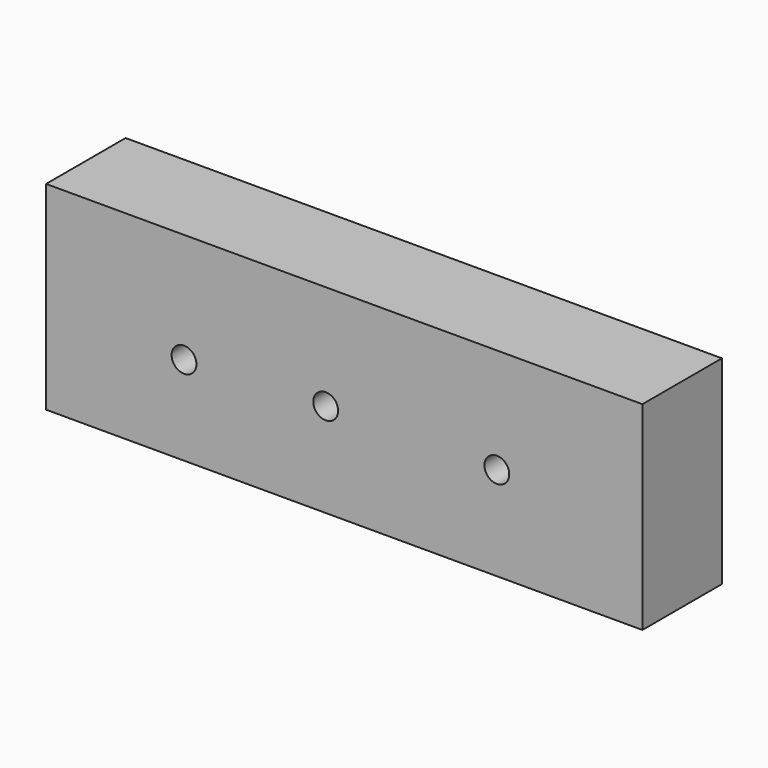
from build123d import *

# Parameters (mm, degrees)
F1_DEPTH = 25.4
F2_D     = 6.35


with BuildPart() as f1:
    # F0 (on Front) → F1 (new body)
    with BuildSketch(Plane.XZ):
        Polygon((31.6425718893, 50.8), (-46.8900987147, 50.8), (-46.8900987147, 0), (31.6425718893, 0), (34.2237182177, 0), (105.5099012853, 0), (105.5099012853, 50.8), (34.2237182177, 50.8), align=None)
    extrude(amount=F1_DEPTH)

    # F2 (through all)
    with Locations(Plane(origin=(0, 0, 0), x_dir=(1, 0, 0), z_dir=(0, 1, 0))):
        with Locations((24.5759151876, -24.0166038275), (-11.6378869861, -22.7205939591), (68.3064237237, -23.9446088672)):
            Hole(F2_D / 2)


solid = f1.part
